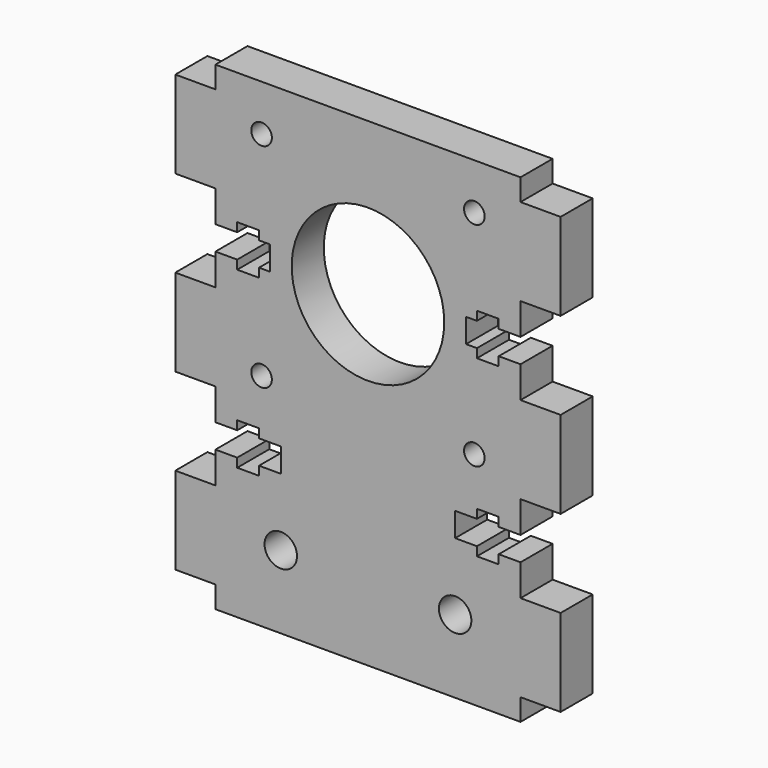
from build123d import *

# Parameters (mm, degrees)
F0_R     = 1.5
F0_R_2   = 11.1125
F1_DEPTH = 5.842
F3_DEPTH = 5.842
F5_DEPTH = 25.4
F6_R     = 2.363
F7_DEPTH = 25.4


with BuildPart() as f1:
    # F0 (on Front) → F1 (new body)
    with BuildSketch(Plane.XZ):
        Polygon((22.225, 22.225), (-22.225, 22.225), (-22.225, 19.05), (-28.067, 19.05), (-28.067, 6.35), (-22.225, 6.35), (-22.225, 1.7526), (-19.05, 1.7526), (-19.05, 3.048), (-15.875, 3.048), (-15.875, 1.7526), (-14.2875, 1.7526), (-14.2875, -1.7526), (-15.875, -1.7526), (-15.875, -3.048), (-19.05, -3.048), (-19.05, -1.7526), (-22.225, -1.7526), (-22.225, -6.35), (-28.067, -6.35), (-28.067, -19.05), (-22.225, -19.05), (-22.225, -22.225), (22.225, -22.225), (22.225, -19.05), (28.067, -19.05), (28.067, -6.35), (22.225, -6.35), (22.225, -1.7526), (19.05, -1.7526), (19.05, -3.048), (15.875, -3.048), (15.875, -1.7526), (14.2875, -1.7526), (14.2875, 1.7526), (15.875, 1.7526), (15.875, 3.048), (19.05, 3.048), (19.05, 1.7526), (22.225, 1.7526), (22.225, 6.35), (28.067, 6.35), (28.067, 19.05), (22.225, 19.05), align=None)
        with Locations((-15.5, -15.5)):
            Circle(F0_R, mode=Mode.SUBTRACT)
        with Locations((15.5, -15.5)):
            Circle(F0_R, mode=Mode.SUBTRACT)
        with Locations((-15.5, 15.5)):
            Circle(F0_R, mode=Mode.SUBTRACT)
        Circle(F0_R_2, mode=Mode.SUBTRACT)
        with Locations((15.5, 15.5)):
            Circle(F0_R, mode=Mode.SUBTRACT)
    extrude(amount=F1_DEPTH)

    # F2 (on face) → F3 (join, through all)
    with BuildSketch(Plane.XZ.offset(5.842)):
        Polygon((22.225, -22.225), (-22.225, -22.225), (-22.225, -31.75), (-28.067, -31.75), (-28.067, -44.45), (-22.225, -44.45), (-22.225, -47.625), (22.225, -47.625), (22.225, -44.45), (28.067, -44.45), (28.067, -31.75), (22.225, -31.75), align=None)
    extrude(amount=-F3_DEPTH)

    # F4 (on face) → F5 (cut)
    with BuildSketch(Plane(origin=(0, 0, 0), x_dir=(-1, 0, 0), z_dir=(0, 1, 0))):
        Polygon((22.225, -27.1526), (22.225, -23.6474), (19.05, -23.6474), (19.05, -22.352), (15.875, -22.352), (15.875, -23.6474), (12.7, -23.6474), (12.7, -27.1526), (15.875, -27.1526), (15.875, -28.448), (19.05, -28.448), (19.05, -27.1526), align=None)
        Polygon((-22.225, -27.1526), (-19.05, -27.1526), (-19.05, -28.448), (-15.875, -28.448), (-15.875, -27.1526), (-12.7, -27.1526), (-12.7, -23.6474), (-15.875, -23.6474), (-15.875, -22.352), (-19.05, -22.352), (-19.05, -23.6474), (-22.225, -23.6474), align=None)
    extrude(amount=-F5_DEPTH, mode=Mode.SUBTRACT)

    # F6 (on face) → F7 (cut)
    with BuildSketch(Plane.XZ.offset(5.842)):
        with Locations((-12.7, -36.957)):
            Circle(F6_R)
        with Locations((12.7, -36.957)):
            Circle(F6_R)
    extrude(amount=-F7_DEPTH, mode=Mode.SUBTRACT)


solid = f1.part
